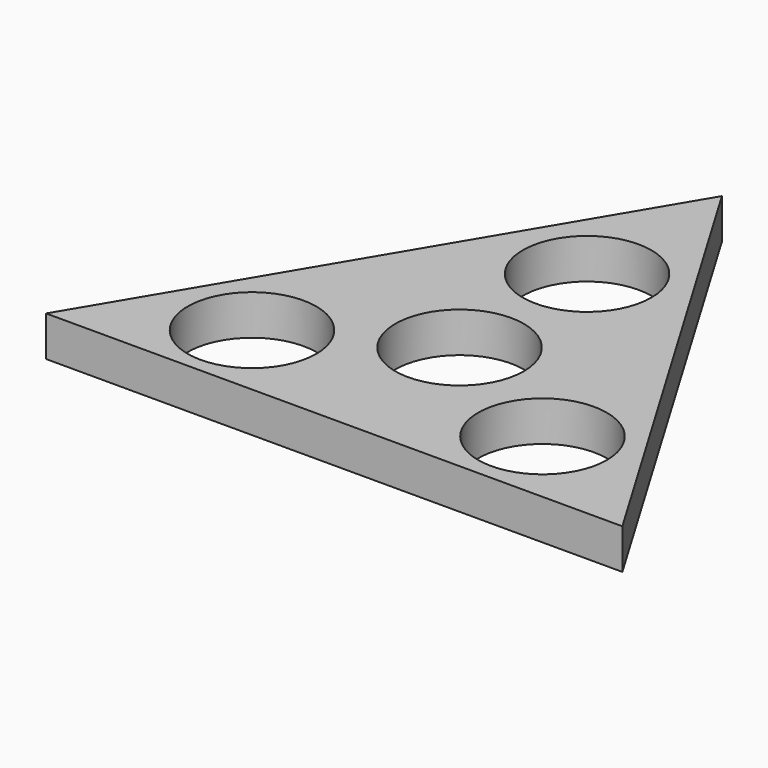
from build123d import *

# Parameters (mm, degrees)
F0_R     = 11.2
F1_DEPTH = 7


with BuildPart() as f1:
    # F0 (on Top) → F1 (new body)
    with BuildSketch(Plane.XY):
        Polygon((50.207934, -27.299924), (0, 57.15), (-50.207934, -27.299924), align=None)
        with Locations((-25.248665, -13.644594)):
            Circle(F0_R, mode=Mode.SUBTRACT)
        with Locations((25.170928, -13.38995)):
            Circle(F0_R, mode=Mode.SUBTRACT)
        Circle(F0_R, mode=Mode.SUBTRACT)
        with Locations((0, 27.780516)):
            Circle(F0_R, mode=Mode.SUBTRACT)
    extrude(amount=F1_DEPTH)


solid = f1.part
